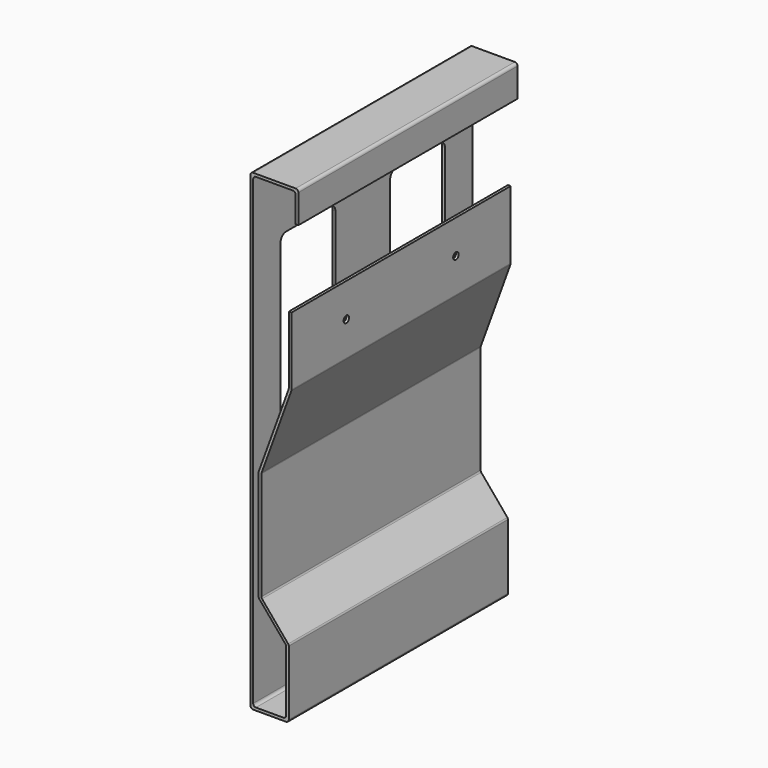
from build123d import *

# Parameters (mm, degrees)
F1_DEPTH = 200
F2_R     = 2
F4_DEPTH = 2
F6_D     = 5
F6_DEPTH = 2


with BuildPart() as f1:
    # F0 (on Front) → F1 (new body)
    with BuildSketch(Plane.XZ):
        Polygon((35, 0), (0, 0), (0, -345), (28, -345), (28, -295), (8, -271.164928), (8, -191.164928), (30, -130.720425), (30, -80.720425), (28, -80.720425), (28, -130.367771), (6, -190.812274), (6, -271.892869), (26, -295.72794), (26, -343), (2, -343), (2, -2), (33, -2), (33, -23), (35, -23), align=None)
    extrude(amount=F1_DEPTH)

    # F2
    f2_edges = [f1.edges().sort_by_distance(p)[0] for p in [
        (0, -100, 0),
        (35, -100, 0),
        (33, -100, -2),
        (2, -100, -2),
        (0, -100, -345),
        (2, -100, -343),
        (28, -100, -345),
        (26, -100, -343),
        (26, -100, -295.72794),
        (28, -100, -295),
        (8, -100, -271.164928),
        (6, -100, -271.892869),
        (6, -100, -190.812274),
        (8, -100, -191.164928),
        (30, -100, -130.720425),
        (28, -100, -130.367771),
    ]]
    fillet(f2_edges, radius=F2_R)

    # F3 (on face) → F4 (cut)
    with BuildSketch(Plane(origin=(0, 0, 0), x_dir=(0, -1, 0), z_dir=(-1, 0, 0))):
        with BuildLine():
            Line((70, -50), (30, -50))
            ThreePointArc((30, -50), (26.464466, -51.464466), (25, -55))
            Line((25, -55), (25, -290))
            ThreePointArc((25, -290), (26.464466, -293.535534), (30, -295))
            Line((30, -295), (70, -295))
            ThreePointArc((70, -295), (73.535534, -293.535534), (75, -290))
            Line((75, -290), (75, -55))
            ThreePointArc((75, -55), (73.535534, -51.464466), (70, -50))
        make_face()
        with BuildLine():
            ThreePointArc((130, -50), (126.464466, -51.464466), (125, -55))
            Line((125, -55), (125, -290))
            ThreePointArc((125, -290), (126.464466, -293.535534), (130, -295))
            Line((130, -295), (170, -295))
            ThreePointArc((170, -295), (173.535534, -293.535534), (175, -290))
            Line((175, -290), (175, -55))
            ThreePointArc((175, -55), (173.535534, -51.464466), (170, -50))
            Line((170, -50), (130, -50))
        make_face()
    extrude(amount=-F4_DEPTH, mode=Mode.SUBTRACT)

    # F6
    with Locations(Plane(origin=(28, 0, 0), x_dir=(0, -1, 0), z_dir=(-1, 0, 0))):
        with Locations((50, -105.367771), (150, -105.367771)):
            Hole(F6_D / 2, depth=F6_DEPTH)


solid = f1.part
